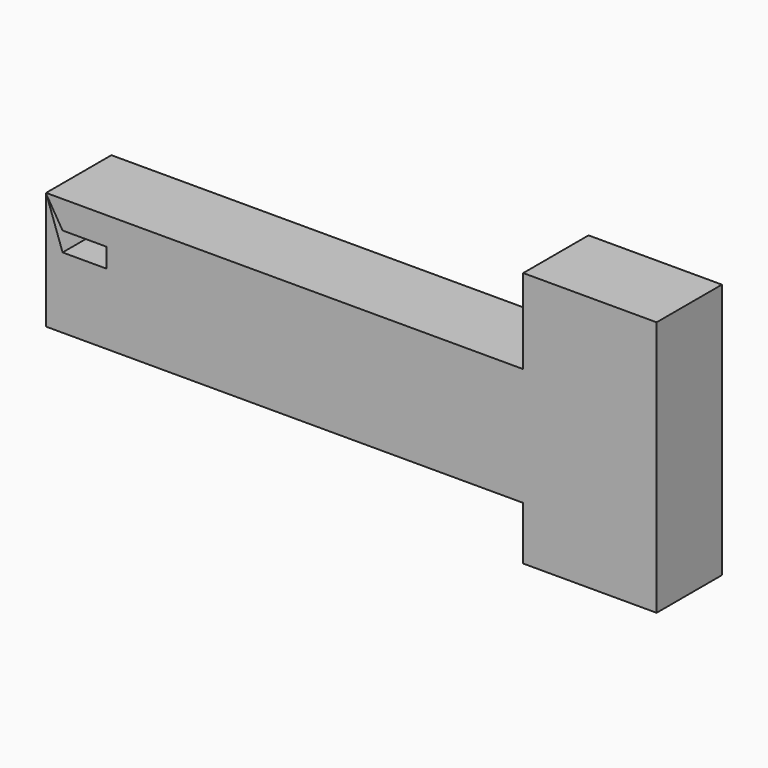
from build123d import *

# Parameters (mm, degrees)
F0_W     = 8.1289224327
F0_H     = 36.6465272382
F1_DEPTH = 25.4


with BuildPart() as f1:
    # F0 (on Front) → F1 (new body)
    with BuildSketch(Plane.XZ):
        Polygon((-24.8146168888, 40.9678071737), (-66.3149282336, 40.9678071737), (-66.3149282336, 14.6492579952), (-58.186005801, 14.6492579952), (-58.186005801, -21.997269243), (-66.3149282336, -21.997269243), (-66.3149282336, -38.6094748974), (-24.8146168888, -38.6094748974), align=None)
        with Locations((-62.2504670173, -3.6740056239)):
            Rectangle(F0_W, F0_H)
        Polygon((-66.3149282336, -21.997269243), (-66.3149282336, 14.6492579952), (-214.7748172283, 14.6492579952), (-214.5942430103, 14.1340185696), (-209.6407413483, 6.0107740574), (-195.9499269724, 6.0107740574), (-195.9499269724, 0), (-171.5631484985, -21.997269243), align=None)
        Polygon((-214.5942430103, 14.1340185696), (-214.7748172283, 14.6492579952), (-214.7748172283, 14.4301421254), align=None)
        Polygon((-214.7748172283, -21.997269243), (-171.5631484985, -21.997269243), (-195.9499269724, 0), (-209.6407413483, 0), (-214.5942430103, 14.1340185696), (-214.7748172283, 14.4301421254), align=None)
    extrude(amount=F1_DEPTH)


solid = f1.part
